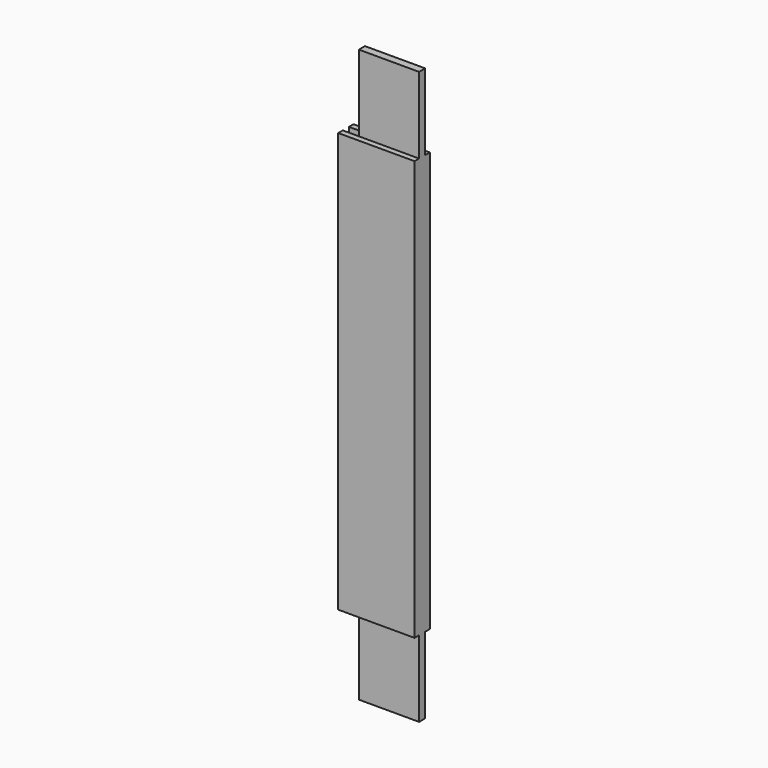
from build123d import *

# Parameters (mm, degrees)
F0_W     = 200
F0_H     = 50
F1_DEPTH = 750
F2_W     = 42
F2_H     = 20
F3_DEPTH = 1500
F4_W     = 15
F4_H     = 200
F5_DEPTH = 200


with BuildPart() as f1:
    # F0 (on Top) → F1 (new body, symmetric)
    with BuildSketch(Plane.XY):
        Rectangle(F0_W, F0_H)
    extrude(amount=F1_DEPTH, both=True)

    # F2 (on face) → F3 (cut, through all)
    with BuildSketch(Plane(origin=(0, 0, -750), x_dir=(1, 0, 0), z_dir=(0, 0, -1))):
        with Locations((-79, 0)):
            Rectangle(F2_W, F2_H)
    extrude(amount=-F3_DEPTH, mode=Mode.SUBTRACT)

    # F4 (on face) → F5 (cut, through all)
    with BuildSketch(Plane(origin=(-100, 0, 0), x_dir=(0, -1, 0), z_dir=(-1, 0, 0))):
        with Locations((-17.5, 650)):
            Rectangle(F4_W, F4_H)
        with Locations((17.5, 650)):
            Rectangle(F4_W, F4_H)
        with Locations((17.5, -650)):
            Rectangle(F4_W, F4_H)
        with Locations((-17.5, -650)):
            Rectangle(F4_W, F4_H)
    extrude(amount=-F5_DEPTH, mode=Mode.SUBTRACT)


solid = f1.part
